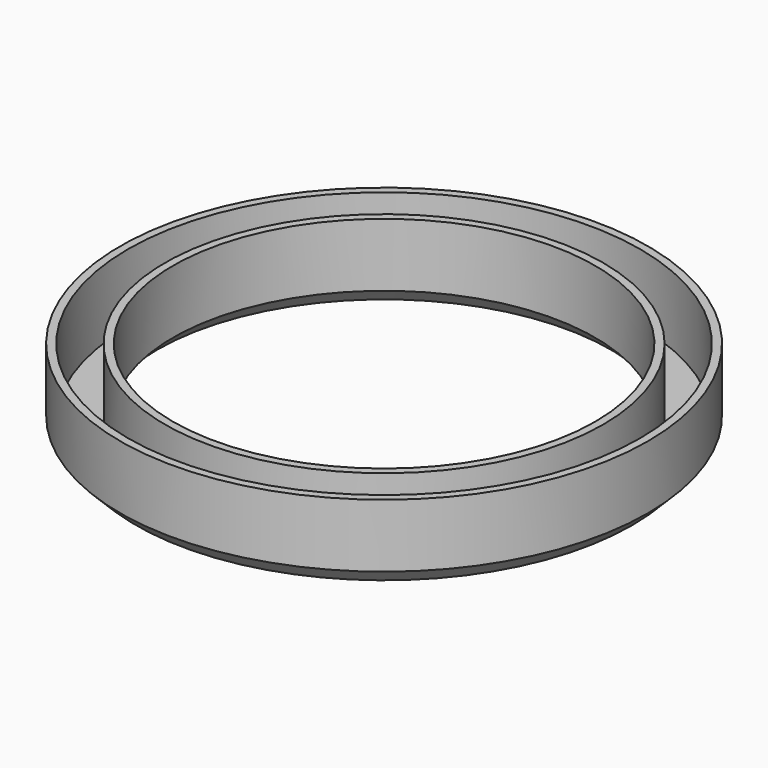
from build123d import *

# Parameters (mm, degrees)
F0_R     = 50
F0_R_2   = 40
F1_DEPTH = 15
F2_R     = 48.5
F2_R_2   = 41.5
F3_DEPTH = 13
F4_SIZE  = 3
F5_SIZE  = 3


with BuildPart() as f1:
    # F0 (on Top) → F1 (new body)
    with BuildSketch(Plane.XY):
        Circle(F0_R)
        Circle(F0_R_2, mode=Mode.SUBTRACT)
    extrude(amount=F1_DEPTH)

    # F2 (on face) → F3 (cut)
    with BuildSketch(Plane.XY.offset(15)):
        Circle(F2_R)
        Circle(F2_R_2, mode=Mode.SUBTRACT)
    extrude(amount=-F3_DEPTH, mode=Mode.SUBTRACT)

    # F4
    f4_edges = [f1.edges().sort_by_distance(p)[0] for p in [
        (-50, 0, 0),
    ]]
    chamfer(f4_edges, length=F4_SIZE)

    # F5
    f5_edges = [f1.edges().sort_by_distance(p)[0] for p in [
        (-40, 0, 0),
    ]]
    chamfer(f5_edges, length=F5_SIZE)


solid = f1.part
